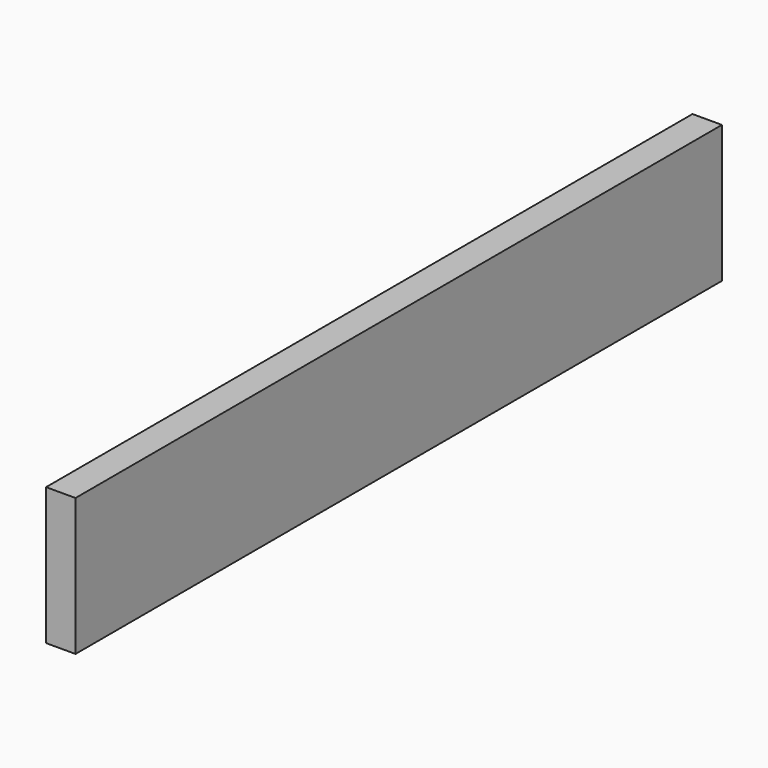
from build123d import *

# Parameters (mm, degrees)
SKETCH_W  = 19.05
SKETCH_H  = 88.9
PAD_DEPTH = 523.1


with BuildPart() as part:
    # Sketch → Pad (new body)
    with BuildSketch(Plane.XZ):
        with Locations((9.525, 44.45)):
            Rectangle(SKETCH_W, SKETCH_H)
    extrude(amount=PAD_DEPTH)


solid = part.part
